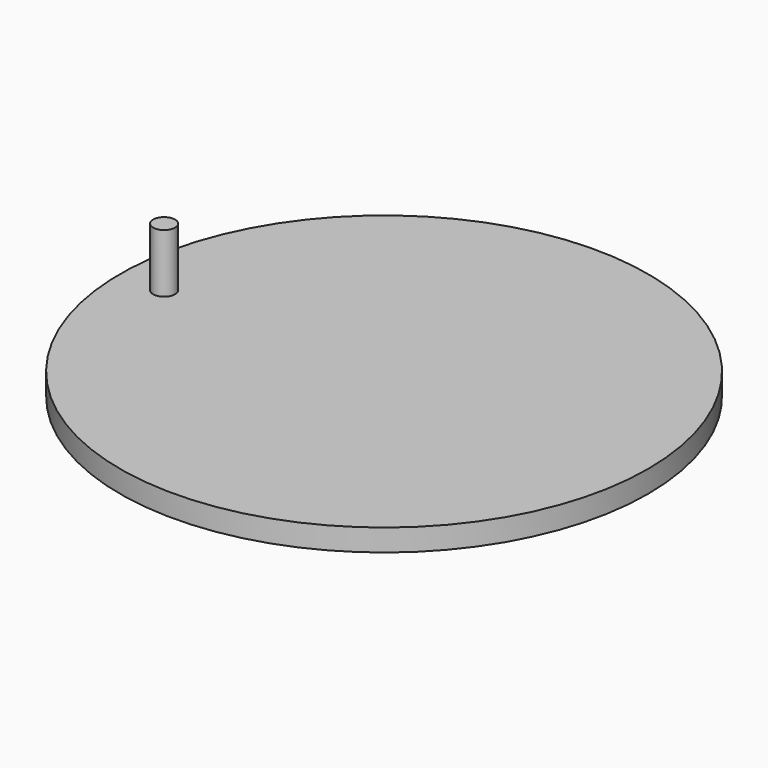
from build123d import *

# Parameters (mm, degrees)
F0_R     = 228.6
F1_DEPTH = 19.05
F2_R     = 9.525
F3_DEPTH = 50.8


with BuildPart() as f1:
    # F0 (on Top) → F1 (new body)
    with BuildSketch(Plane.XY):
        Circle(F0_R)
    extrude(amount=F1_DEPTH)

    # F2 (on face) → F3 (join)
    with BuildSketch(Plane.XY.offset(19.05)):
        with Locations((-190.5, 0)):
            Circle(F2_R)
    extrude(amount=F3_DEPTH)


solid = f1.part
